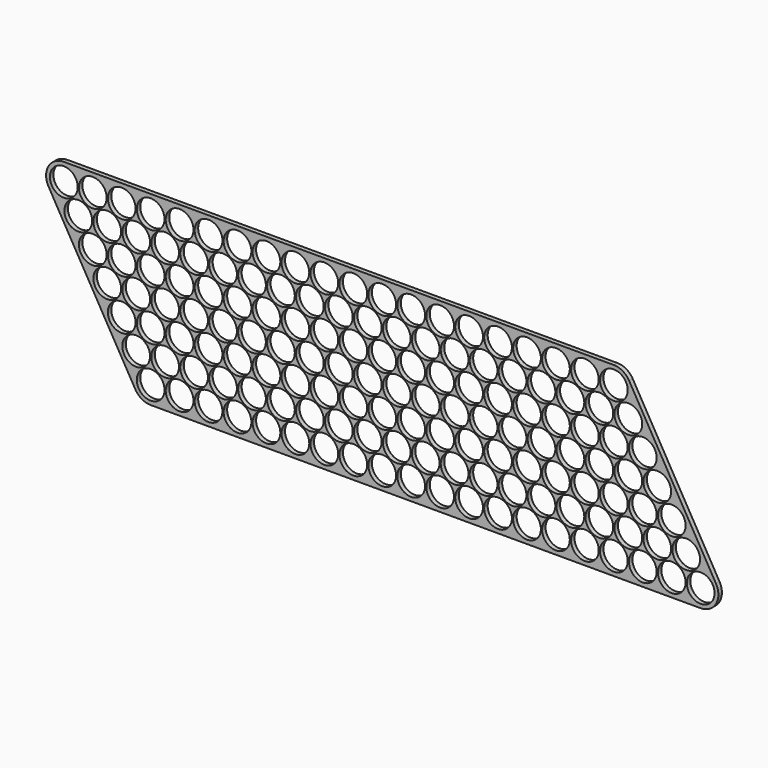
from build123d import *

# Parameters (mm, degrees)
F0_R     = 9.4
F1_DEPTH = 3


with BuildPart() as f1:
    # F0 (on Front) → F1 (new body)
    with BuildSketch(Plane.XZ):
        with BuildLine():
            Line((-10.392305, -6), (48.407695, -107.844587))
            ThreePointArc((48.407695, -107.844587), (52.8, -112.236892), (58.8, -113.844587))
            Line((58.8, -113.844587), (431.2, -113.844587))
            ThreePointArc((431.2, -113.844587), (441.592305, -107.844587), (441.592305, -95.844587))
            Line((441.592305, -95.844587), (382.792305, 6))
            ThreePointArc((382.792305, 6), (378.4, 10.392305), (372.4, 12))
            Line((372.4, 12), (0, 12))
            ThreePointArc((0, 12), (-10.392305, 6), (-10.392305, -6))
        make_face()
        with Locations((58.8, -101.844587)):
            Circle(F0_R, mode=Mode.SUBTRACT)
        with Locations((78.4, -101.844587)):
            Circle(F0_R, mode=Mode.SUBTRACT)
        with Locations((98, -101.844587)):
            Circle(F0_R, mode=Mode.SUBTRACT)
        with Locations((49, -84.87049)):
            Circle(F0_R, mode=Mode.SUBTRACT)
        with Locations((68.6, -84.87049)):
            Circle(F0_R, mode=Mode.SUBTRACT)
        with Locations((88.2, -84.87049)):
            Circle(F0_R, mode=Mode.SUBTRACT)
        with Locations((117.6, -101.844587)):
            Circle(F0_R, mode=Mode.SUBTRACT)
        with Locations((137.2, -101.844587)):
            Circle(F0_R, mode=Mode.SUBTRACT)
        with Locations((156.8, -101.844587)):
            Circle(F0_R, mode=Mode.SUBTRACT)
        with Locations((176.4, -101.844587)):
            Circle(F0_R, mode=Mode.SUBTRACT)
        with Locations((196, -101.844587)):
            Circle(F0_R, mode=Mode.SUBTRACT)
        with Locations((215.6, -101.844587)):
            Circle(F0_R, mode=Mode.SUBTRACT)
        with Locations((107.8, -84.87049)):
            Circle(F0_R, mode=Mode.SUBTRACT)
        with Locations((127.4, -84.87049)):
            Circle(F0_R, mode=Mode.SUBTRACT)
        with Locations((147, -84.87049)):
            Circle(F0_R, mode=Mode.SUBTRACT)
        with Locations((166.6, -84.87049)):
            Circle(F0_R, mode=Mode.SUBTRACT)
        with Locations((186.2, -84.87049)):
            Circle(F0_R, mode=Mode.SUBTRACT)
        with Locations((205.8, -84.87049)):
            Circle(F0_R, mode=Mode.SUBTRACT)
        with Locations((39.2, -67.896392)):
            Circle(F0_R, mode=Mode.SUBTRACT)
        with Locations((58.8, -67.896392)):
            Circle(F0_R, mode=Mode.SUBTRACT)
        with Locations((78.4, -67.896392)):
            Circle(F0_R, mode=Mode.SUBTRACT)
        with Locations((98, -67.896392)):
            Circle(F0_R, mode=Mode.SUBTRACT)
        with Locations((117.6, -67.896392)):
            Circle(F0_R, mode=Mode.SUBTRACT)
        with Locations((137.2, -67.896392)):
            Circle(F0_R, mode=Mode.SUBTRACT)
        with Locations((156.8, -67.896392)):
            Circle(F0_R, mode=Mode.SUBTRACT)
        with Locations((176.4, -67.896392)):
            Circle(F0_R, mode=Mode.SUBTRACT)
        with Locations((196, -67.896392)):
            Circle(F0_R, mode=Mode.SUBTRACT)
        with Locations((215.6, -67.896392)):
            Circle(F0_R, mode=Mode.SUBTRACT)
        with Locations((235.2, -101.844587)):
            Circle(F0_R, mode=Mode.SUBTRACT)
        with Locations((254.8, -101.844587)):
            Circle(F0_R, mode=Mode.SUBTRACT)
        with Locations((274.4, -101.844587)):
            Circle(F0_R, mode=Mode.SUBTRACT)
        with Locations((294, -101.844587)):
            Circle(F0_R, mode=Mode.SUBTRACT)
        with Locations((313.6, -101.844587)):
            Circle(F0_R, mode=Mode.SUBTRACT)
        with Locations((225.4, -84.87049)):
            Circle(F0_R, mode=Mode.SUBTRACT)
        with Locations((245, -84.87049)):
            Circle(F0_R, mode=Mode.SUBTRACT)
        with Locations((264.6, -84.87049)):
            Circle(F0_R, mode=Mode.SUBTRACT)
        with Locations((284.2, -84.87049)):
            Circle(F0_R, mode=Mode.SUBTRACT)
        with Locations((303.8, -84.87049)):
            Circle(F0_R, mode=Mode.SUBTRACT)
        with Locations((323.4, -84.87049)):
            Circle(F0_R, mode=Mode.SUBTRACT)
        with Locations((333.2, -101.844587)):
            Circle(F0_R, mode=Mode.SUBTRACT)
        with Locations((352.8, -101.844587)):
            Circle(F0_R, mode=Mode.SUBTRACT)
        with Locations((372.4, -101.844587)):
            Circle(F0_R, mode=Mode.SUBTRACT)
        with Locations((392, -101.844587)):
            Circle(F0_R, mode=Mode.SUBTRACT)
        with Locations((411.6, -101.844587)):
            Circle(F0_R, mode=Mode.SUBTRACT)
        with Locations((431.2, -101.844587)):
            Circle(F0_R, mode=Mode.SUBTRACT)
        with Locations((343, -84.87049)):
            Circle(F0_R, mode=Mode.SUBTRACT)
        with Locations((362.6, -84.87049)):
            Circle(F0_R, mode=Mode.SUBTRACT)
        with Locations((382.2, -84.87049)):
            Circle(F0_R, mode=Mode.SUBTRACT)
        with Locations((401.8, -84.87049)):
            Circle(F0_R, mode=Mode.SUBTRACT)
        with Locations((421.4, -84.87049)):
            Circle(F0_R, mode=Mode.SUBTRACT)
        with Locations((235.2, -67.896392)):
            Circle(F0_R, mode=Mode.SUBTRACT)
        with Locations((254.8, -67.896392)):
            Circle(F0_R, mode=Mode.SUBTRACT)
        with Locations((274.4, -67.896392)):
            Circle(F0_R, mode=Mode.SUBTRACT)
        with Locations((294, -67.896392)):
            Circle(F0_R, mode=Mode.SUBTRACT)
        with Locations((313.6, -67.896392)):
            Circle(F0_R, mode=Mode.SUBTRACT)
        with Locations((333.2, -67.896392)):
            Circle(F0_R, mode=Mode.SUBTRACT)
        with Locations((352.8, -67.896392)):
            Circle(F0_R, mode=Mode.SUBTRACT)
        with Locations((372.4, -67.896392)):
            Circle(F0_R, mode=Mode.SUBTRACT)
        with Locations((392, -67.896392)):
            Circle(F0_R, mode=Mode.SUBTRACT)
        with Locations((411.6, -67.896392)):
            Circle(F0_R, mode=Mode.SUBTRACT)
        with Locations((29.4, -50.922294)):
            Circle(F0_R, mode=Mode.SUBTRACT)
        with Locations((49, -50.922294)):
            Circle(F0_R, mode=Mode.SUBTRACT)
        with Locations((68.6, -50.922294)):
            Circle(F0_R, mode=Mode.SUBTRACT)
        with Locations((88.2, -50.922294)):
            Circle(F0_R, mode=Mode.SUBTRACT)
        with Locations((19.6, -33.948196)):
            Circle(F0_R, mode=Mode.SUBTRACT)
        with Locations((39.2, -33.948196)):
            Circle(F0_R, mode=Mode.SUBTRACT)
        with Locations((58.8, -33.948196)):
            Circle(F0_R, mode=Mode.SUBTRACT)
        with Locations((78.4, -33.948196)):
            Circle(F0_R, mode=Mode.SUBTRACT)
        with Locations((98, -33.948196)):
            Circle(F0_R, mode=Mode.SUBTRACT)
        with Locations((107.8, -50.922294)):
            Circle(F0_R, mode=Mode.SUBTRACT)
        with Locations((127.4, -50.922294)):
            Circle(F0_R, mode=Mode.SUBTRACT)
        with Locations((147, -50.922294)):
            Circle(F0_R, mode=Mode.SUBTRACT)
        with Locations((166.6, -50.922294)):
            Circle(F0_R, mode=Mode.SUBTRACT)
        with Locations((186.2, -50.922294)):
            Circle(F0_R, mode=Mode.SUBTRACT)
        with Locations((205.8, -50.922294)):
            Circle(F0_R, mode=Mode.SUBTRACT)
        with Locations((117.6, -33.948196)):
            Circle(F0_R, mode=Mode.SUBTRACT)
        with Locations((137.2, -33.948196)):
            Circle(F0_R, mode=Mode.SUBTRACT)
        with Locations((156.8, -33.948196)):
            Circle(F0_R, mode=Mode.SUBTRACT)
        with Locations((176.4, -33.948196)):
            Circle(F0_R, mode=Mode.SUBTRACT)
        with Locations((196, -33.948196)):
            Circle(F0_R, mode=Mode.SUBTRACT)
        with Locations((215.6, -33.948196)):
            Circle(F0_R, mode=Mode.SUBTRACT)
        with Locations((9.8, -16.974098)):
            Circle(F0_R, mode=Mode.SUBTRACT)
        with Locations((29.4, -16.974098)):
            Circle(F0_R, mode=Mode.SUBTRACT)
        with Locations((49, -16.974098)):
            Circle(F0_R, mode=Mode.SUBTRACT)
        with Locations((68.6, -16.974098)):
            Circle(F0_R, mode=Mode.SUBTRACT)
        with Locations((88.2, -16.974098)):
            Circle(F0_R, mode=Mode.SUBTRACT)
        Circle(F0_R, mode=Mode.SUBTRACT)
        with Locations((19.6, 0)):
            Circle(F0_R, mode=Mode.SUBTRACT)
        with Locations((39.2, 0)):
            Circle(F0_R, mode=Mode.SUBTRACT)
        with Locations((58.8, 0)):
            Circle(F0_R, mode=Mode.SUBTRACT)
        with Locations((78.4, 0)):
            Circle(F0_R, mode=Mode.SUBTRACT)
        with Locations((98, 0)):
            Circle(F0_R, mode=Mode.SUBTRACT)
        with Locations((107.8, -16.974098)):
            Circle(F0_R, mode=Mode.SUBTRACT)
        with Locations((127.4, -16.974098)):
            Circle(F0_R, mode=Mode.SUBTRACT)
        with Locations((147, -16.974098)):
            Circle(F0_R, mode=Mode.SUBTRACT)
        with Locations((166.6, -16.974098)):
            Circle(F0_R, mode=Mode.SUBTRACT)
        with Locations((186.2, -16.974098)):
            Circle(F0_R, mode=Mode.SUBTRACT)
        with Locations((205.8, -16.974098)):
            Circle(F0_R, mode=Mode.SUBTRACT)
        with Locations((117.6, 0)):
            Circle(F0_R, mode=Mode.SUBTRACT)
        with Locations((137.2, 0)):
            Circle(F0_R, mode=Mode.SUBTRACT)
        with Locations((156.8, 0)):
            Circle(F0_R, mode=Mode.SUBTRACT)
        with Locations((176.4, 0)):
            Circle(F0_R, mode=Mode.SUBTRACT)
        with Locations((196, 0)):
            Circle(F0_R, mode=Mode.SUBTRACT)
        with Locations((215.6, 0)):
            Circle(F0_R, mode=Mode.SUBTRACT)
        with Locations((225.4, -50.922294)):
            Circle(F0_R, mode=Mode.SUBTRACT)
        with Locations((245, -50.922294)):
            Circle(F0_R, mode=Mode.SUBTRACT)
        with Locations((264.6, -50.922294)):
            Circle(F0_R, mode=Mode.SUBTRACT)
        with Locations((284.2, -50.922294)):
            Circle(F0_R, mode=Mode.SUBTRACT)
        with Locations((303.8, -50.922294)):
            Circle(F0_R, mode=Mode.SUBTRACT)
        with Locations((323.4, -50.922294)):
            Circle(F0_R, mode=Mode.SUBTRACT)
        with Locations((235.2, -33.948196)):
            Circle(F0_R, mode=Mode.SUBTRACT)
        with Locations((254.8, -33.948196)):
            Circle(F0_R, mode=Mode.SUBTRACT)
        with Locations((274.4, -33.948196)):
            Circle(F0_R, mode=Mode.SUBTRACT)
        with Locations((294, -33.948196)):
            Circle(F0_R, mode=Mode.SUBTRACT)
        with Locations((313.6, -33.948196)):
            Circle(F0_R, mode=Mode.SUBTRACT)
        with Locations((343, -50.922294)):
            Circle(F0_R, mode=Mode.SUBTRACT)
        with Locations((362.6, -50.922294)):
            Circle(F0_R, mode=Mode.SUBTRACT)
        with Locations((382.2, -50.922294)):
            Circle(F0_R, mode=Mode.SUBTRACT)
        with Locations((401.8, -50.922294)):
            Circle(F0_R, mode=Mode.SUBTRACT)
        with Locations((333.2, -33.948196)):
            Circle(F0_R, mode=Mode.SUBTRACT)
        with Locations((352.8, -33.948196)):
            Circle(F0_R, mode=Mode.SUBTRACT)
        with Locations((372.4, -33.948196)):
            Circle(F0_R, mode=Mode.SUBTRACT)
        with Locations((392, -33.948196)):
            Circle(F0_R, mode=Mode.SUBTRACT)
        with Locations((225.4, -16.974098)):
            Circle(F0_R, mode=Mode.SUBTRACT)
        with Locations((245, -16.974098)):
            Circle(F0_R, mode=Mode.SUBTRACT)
        with Locations((264.6, -16.974098)):
            Circle(F0_R, mode=Mode.SUBTRACT)
        with Locations((284.2, -16.974098)):
            Circle(F0_R, mode=Mode.SUBTRACT)
        with Locations((303.8, -16.974098)):
            Circle(F0_R, mode=Mode.SUBTRACT)
        with Locations((323.4, -16.974098)):
            Circle(F0_R, mode=Mode.SUBTRACT)
        with Locations((235.2, 0)):
            Circle(F0_R, mode=Mode.SUBTRACT)
        with Locations((254.8, 0)):
            Circle(F0_R, mode=Mode.SUBTRACT)
        with Locations((274.4, 0)):
            Circle(F0_R, mode=Mode.SUBTRACT)
        with Locations((294, 0)):
            Circle(F0_R, mode=Mode.SUBTRACT)
        with Locations((313.6, 0)):
            Circle(F0_R, mode=Mode.SUBTRACT)
        with Locations((343, -16.974098)):
            Circle(F0_R, mode=Mode.SUBTRACT)
        with Locations((362.6, -16.974098)):
            Circle(F0_R, mode=Mode.SUBTRACT)
        with Locations((382.2, -16.974098)):
            Circle(F0_R, mode=Mode.SUBTRACT)
        with Locations((333.2, 0)):
            Circle(F0_R, mode=Mode.SUBTRACT)
        with Locations((352.8, 0)):
            Circle(F0_R, mode=Mode.SUBTRACT)
        with Locations((372.4, 0)):
            Circle(F0_R, mode=Mode.SUBTRACT)
    extrude(amount=F1_DEPTH)


solid = f1.part
